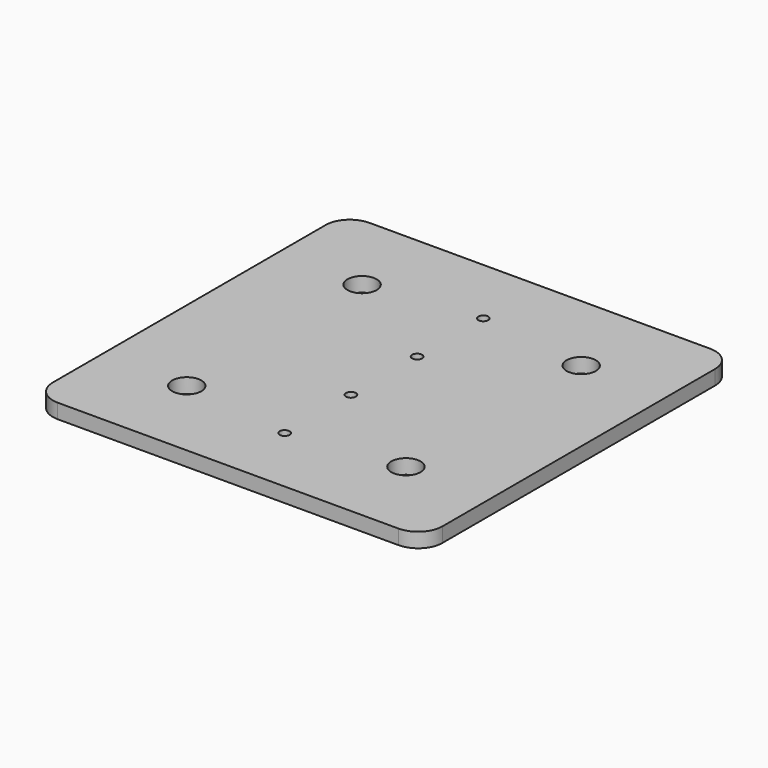
from build123d import *

# Parameters (mm, degrees)
F1_DEPTH = 3
F2_R     = 1.025
F2_R_2   = 3
F3_DEPTH = 25


with BuildPart() as f1:
    # F0 (on Top) → F1 (new body)
    with BuildSketch(Plane.XY):
        with BuildLine():
            ThreePointArc((0, 5), (1.464466, 1.464466), (5, 0))
            Line((5, 0), (75, 0))
            ThreePointArc((75, 0), (78.535534, 1.464466), (80, 5))
            Line((80, 5), (80, 75))
            ThreePointArc((80, 75), (78.535534, 78.535534), (75, 80))
            Line((75, 80), (5, 80))
            ThreePointArc((5, 80), (1.464466, 78.535534), (0, 75))
            Line((0, 75), (0, 5))
        make_face()
    extrude(amount=F1_DEPTH)

    # F2 (on face) → F3 (cut)
    with BuildSketch(Plane.XY.offset(3)):
        with Locations((40, 48.5)):
            Circle(F2_R)
        with Locations((40, 31.5)):
            Circle(F2_R)
        with Locations((62.5, 62.5)):
            Circle(F2_R_2)
        with Locations((40, 65.5)):
            Circle(F2_R)
        with Locations((40, 14.5)):
            Circle(F2_R)
        with Locations((62.5, 17.5)):
            Circle(F2_R_2)
        with Locations((17.5, 62.5)):
            Circle(F2_R_2)
        with Locations((17.5, 17.5)):
            Circle(F2_R_2)
    extrude(amount=-F3_DEPTH, mode=Mode.SUBTRACT)


solid = f1.part
